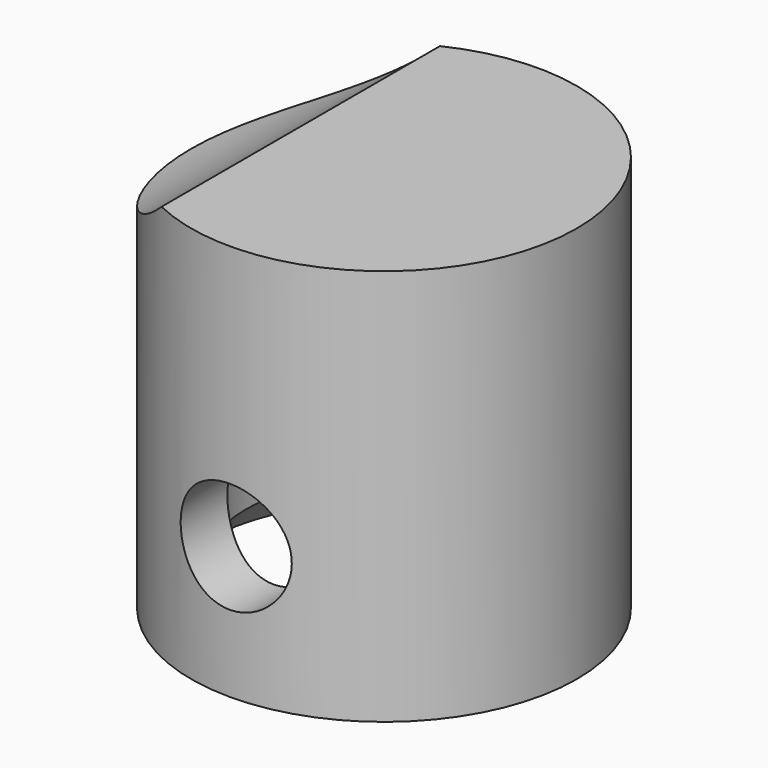
from build123d import *

# Parameters (mm, degrees)
F0_R     = 5.55625
F1_DEPTH = 11.43
F3_D     = 7.9502
F3_DEPTH = 7.7724
F3_TIP   = 2.3884810467
F4_R     = 6.35
F5_DEPTH = 12.7
F6_R     = 1.6002
F7_DEPTH = 12.7


with BuildPart() as f1:
    # F0 (on Top) → F1 (new body)
    with BuildSketch(Plane.XY):
        Circle(F0_R)
    extrude(amount=F1_DEPTH)

    # F3
    with Locations(Plane(origin=(0, 0, 0), x_dir=(1, 0, 0), z_dir=(0, 0, -1))):
        with Locations((0, 0)):
            Hole(F3_D / 2, depth=F3_DEPTH)
            with Locations((0, 0, -(F3_DEPTH + F3_TIP / 2))):  # 118° drill point
                Cone(0, F3_D / 2, F3_TIP, mode=Mode.SUBTRACT)

    # F4 (on Front) → F5 (cut, symmetric)
    with BuildSketch(Plane.XZ):
        with Locations((-6.72465, 16.0782)):
            Circle(F4_R)
    extrude(amount=F5_DEPTH, both=True, mode=Mode.SUBTRACT)

    # F6 (on Front) → F7 (cut, symmetric)
    with BuildSketch(Plane.XZ):
        with Locations((0, 3.81)):
            Circle(F6_R)
    extrude(amount=F7_DEPTH, both=True, mode=Mode.SUBTRACT)

    # F8 (on Front) → F9 (revolve, cut)
    with BuildSketch(Plane.XZ):
        Polygon((-3.9751, 0), (-3.9751, 1.209802), (-5.184902, 0), align=None)
    revolve(axis=Axis((0, 0, 6.5590362065), (0, 0, 1)), mode=Mode.SUBTRACT)


solid = f1.part
